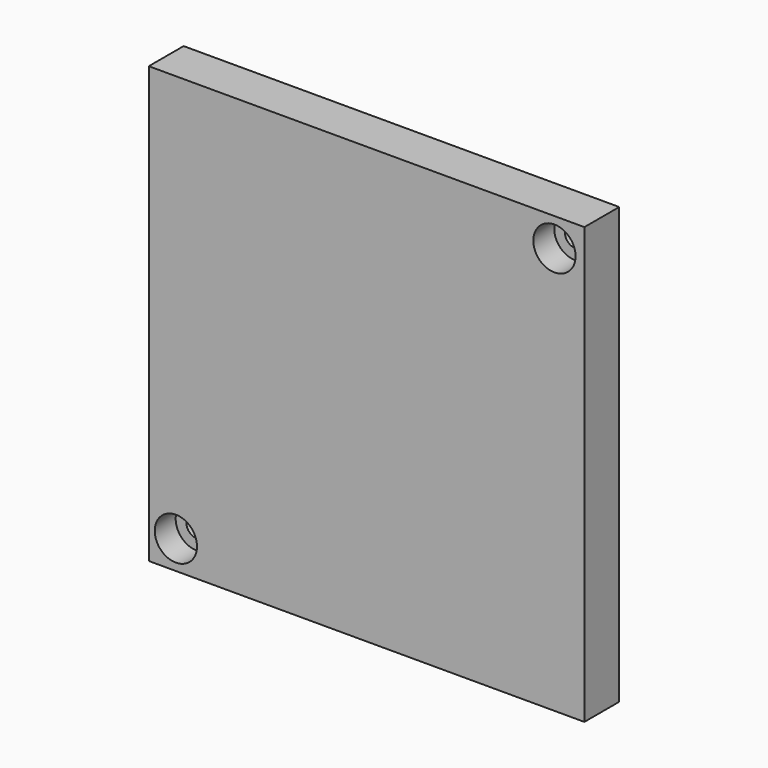
from build123d import *

# Parameters (mm, degrees)
F0_W           = 25.4
F0_H           = 25.4
F1_DEPTH       = 2.54
F3_D           = 1.2192
F3_CBORE_D     = 2.4638
F3_CBORE_DEPTH = 1.524
F4_D           = 1.2192
F4_CBORE_D     = 2.4638
F4_CBORE_DEPTH = 1.524


with BuildPart() as f1:
    # F0 (on Front) → F1 (new body)
    with BuildSketch(Plane.XZ):
        Rectangle(F0_W, F0_H)
    extrude(amount=F1_DEPTH)

    # F3 (through all)
    with Locations(Plane.XZ.offset(2.54)):
        with Locations((-11.119338, -11.037743)):
            CounterBoreHole(F3_D / 2, F3_CBORE_D / 2, F3_CBORE_DEPTH)

    # F4 (through all)
    with Locations(Plane.XZ.offset(2.54)):
        with Locations((10.955215, 11.03681)):
            CounterBoreHole(F4_D / 2, F4_CBORE_D / 2, F4_CBORE_DEPTH)


solid = f1.part
